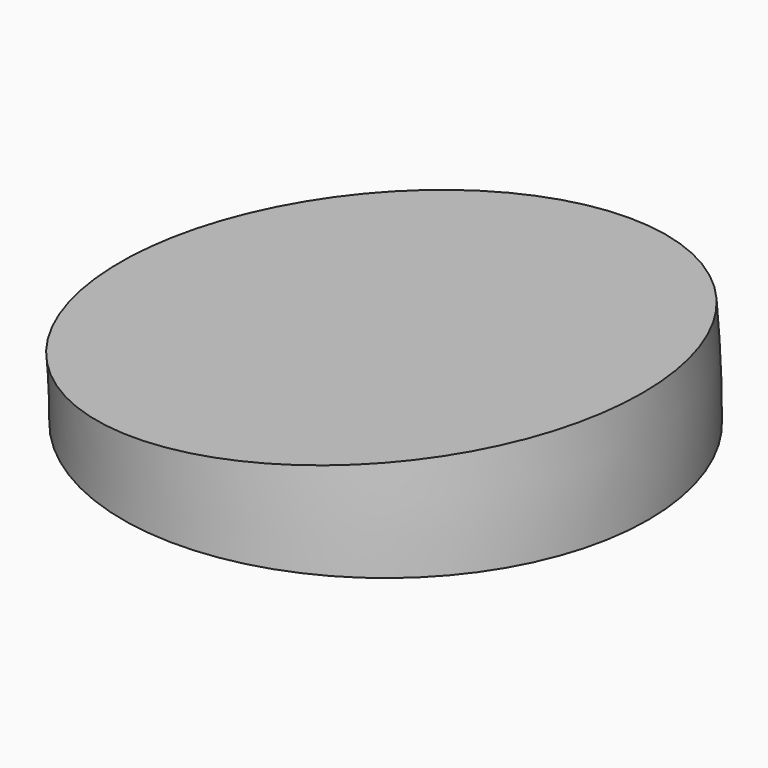
from build123d import *

# Parameters (mm, degrees)
F1_ANGLE = 6


with BuildPart() as f1:
    # F0 (on Top) → F1 (revolve)
    with BuildSketch(Plane.XY):
        with BuildLine():
            ThreePointArc((200, 0), (300, -100), (400, 0))
            ThreePointArc((400, 0), (300, 100), (200, 0))
        make_face()
    revolve(axis=Axis((0, -42.967401, 0), (0, -1, 0)), revolution_arc=F1_ANGLE)


solid = f1.part
